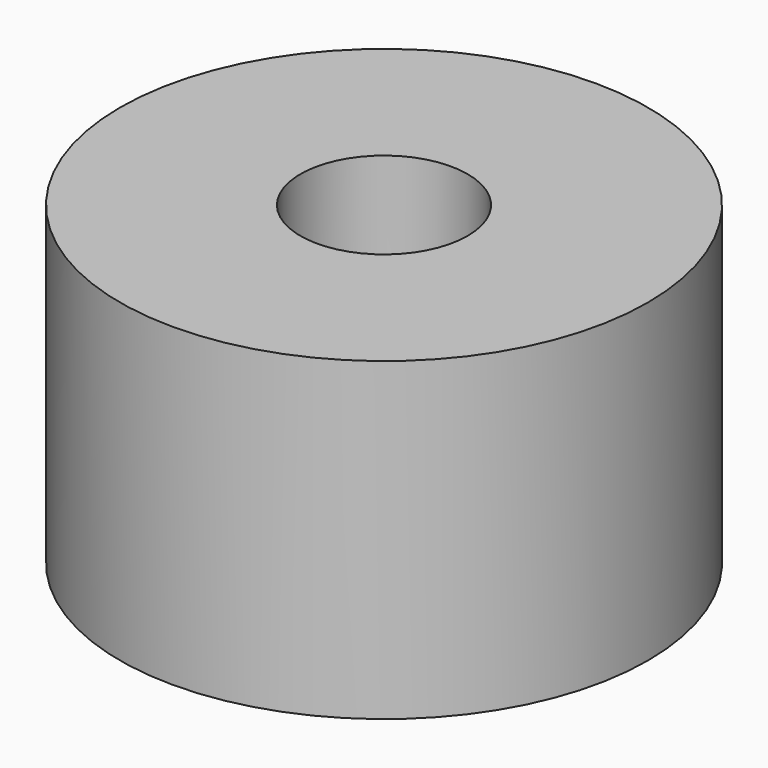
from build123d import *

# Parameters (mm, degrees)
F0_R     = 37.227875
F0_R_2   = 11.796565
F1_DEPTH = 44.45
F2_T     = -5.08


with BuildPart() as f1:
    # F0 (on Top) → F1 (new body)
    with BuildSketch(Plane.XY):
        Circle(F0_R)
        Circle(F0_R_2, mode=Mode.SUBTRACT)
    extrude(amount=F1_DEPTH)

    # F2
    f2_openings = [f1.faces().sort_by_distance(p)[0] for p in [
        (-36.174912, 0, 0),
    ]]
    offset(amount=F2_T, openings=f2_openings)


solid = f1.part
